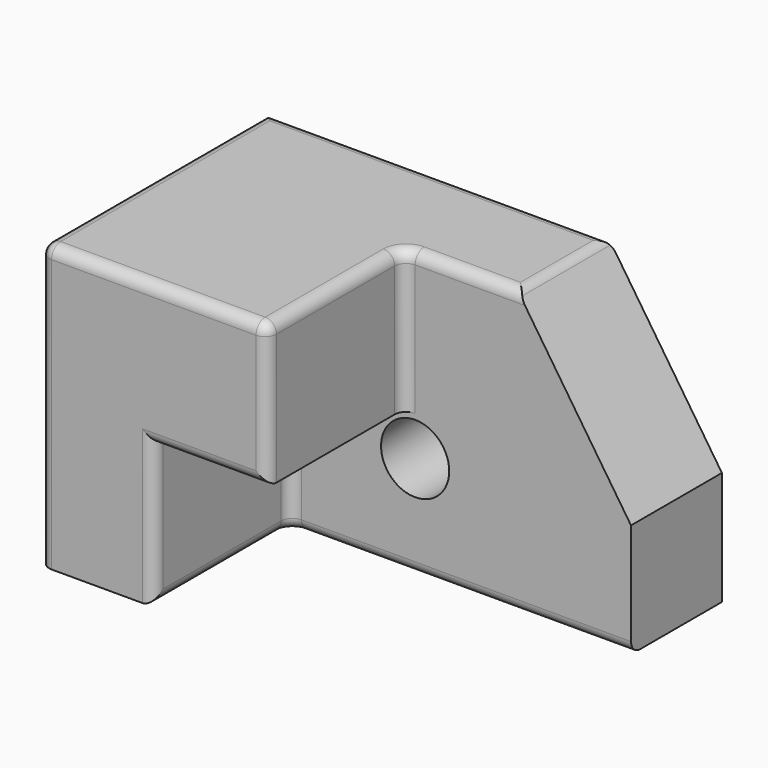
from build123d import *

# Parameters (mm, degrees)
F0_W     = 203.2
F0_H     = 127
F1_DEPTH = 127
F3_DEPTH = 76.2
F4_SIZE2 = 76.2
F4_SIZE  = 50.8
F5_R     = 5.08
F6_R     = 15.24
F7_DEPTH = 50.8


with BuildPart() as f1:
    # F0 (on Front) → F1 (new body)
    with BuildSketch(Plane.XZ):
        Rectangle(F0_W, F0_H)
    extrude(amount=F1_DEPTH)

    # F2 (on face) → F3 (cut)
    with BuildSketch(Plane.XZ.offset(127)):
        Polygon((101.6, 63.5), (0, 63.5), (0, 0), (-50.8, 0), (-50.8, -63.5), (101.6, -63.5), align=None)
    extrude(amount=-F3_DEPTH, mode=Mode.SUBTRACT)

    # F4
    f4_edges = [f1.edges().sort_by_distance(p)[0] for p in [
        (101.6, -25.4, 63.5),
    ]]
    f4_side = f1.faces().sort_by_distance((-21.771429, -52.614286, 63.5))[0]
    chamfer(f4_edges, length=F4_SIZE, length2=F4_SIZE2, reference=f4_side)

    # F5
    f5_edges = [f1.edges().sort_by_distance(p)[0] for p in [
        (25.4, -50.8, 63.5),
        (-25.4, 0, 63.5),
        (50.8, -25.4, 63.5),
        (-101.6, -63.5, 63.5),
        (-50.8, -127, 63.5),
        (0, -88.9, 63.5),
        (0, -127, 31.75),
        (0, -50.8, 31.75),
        (-50.8, -88.9, -63.5),
        (25.4, -50.8, -63.5),
        (-50.8, -50.8, -31.75),
        (-50.8, -127, -31.75),
        (-25.4, -127, 0),
        (-101.6, -127, 0),
    ]]
    fillet(f5_edges, radius=F5_R)

    # F6 (on face) → F7 (cut, through all)
    with BuildSketch(Plane.XZ.offset(50.8)):
        with Locations((5.08, -17.78)):
            Circle(F6_R)
    extrude(amount=-F7_DEPTH, mode=Mode.SUBTRACT)


solid = f1.part
